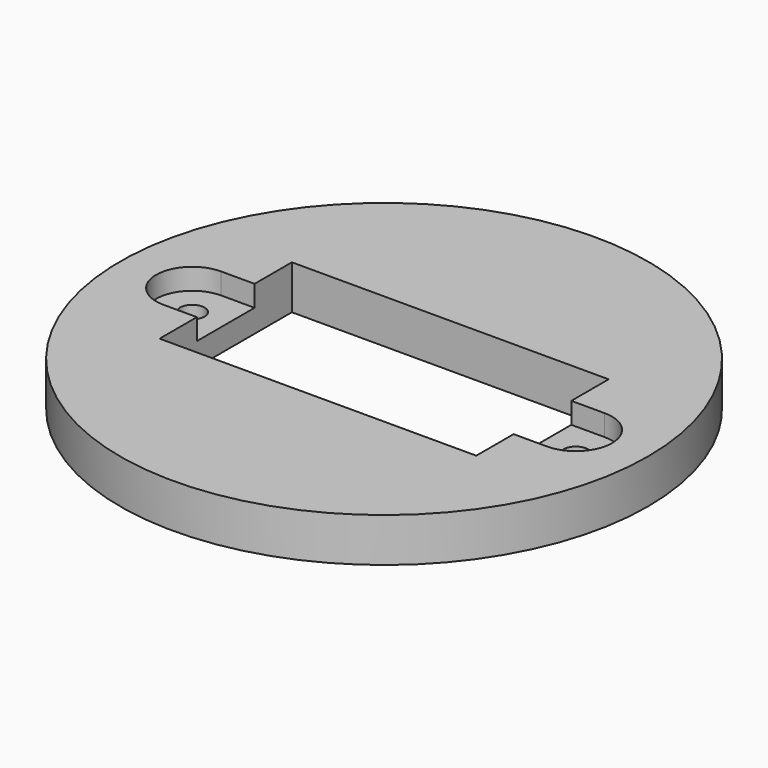
from build123d import *

# Parameters (mm, degrees)
F0_R     = 19.05
F1_DEPTH = 3.175
F2_W     = 22.86
F2_H     = 11.938
F2_R     = 0.889
F3_DEPTH = 3.176
F5_DEPTH = 1.524


with BuildPart() as f1:
    # F0 (on Top) → F1 (new body)
    with BuildSketch(Plane.XY):
        Circle(F0_R)
    extrude(amount=F1_DEPTH)

    # F2 (on face) → F3 (cut, through all)
    with BuildSketch(Plane.XY.offset(3.175)):
        Rectangle(F2_W, F2_H)
        with Locations((-13.843, 0)):
            Circle(F2_R)
        with Locations((13.843, 0)):
            Circle(F2_R)
    extrude(amount=-F3_DEPTH, mode=Mode.SUBTRACT)

    # F4 (on face) → F5 (cut)
    with BuildSketch(Plane.XY.offset(3.175)):
        with BuildLine():
            Line((13.843, 2.6035), (-13.843, 2.6035))
            ThreePointArc((-13.843, 2.6035), (-16.4465, 0), (-13.843, -2.6035))
            Line((-13.843, -2.6035), (13.843, -2.6035))
            ThreePointArc((13.843, -2.6035), (16.4465, 0), (13.843, 2.6035))
        make_face()
    extrude(amount=-F5_DEPTH, mode=Mode.SUBTRACT)


solid = f1.part
